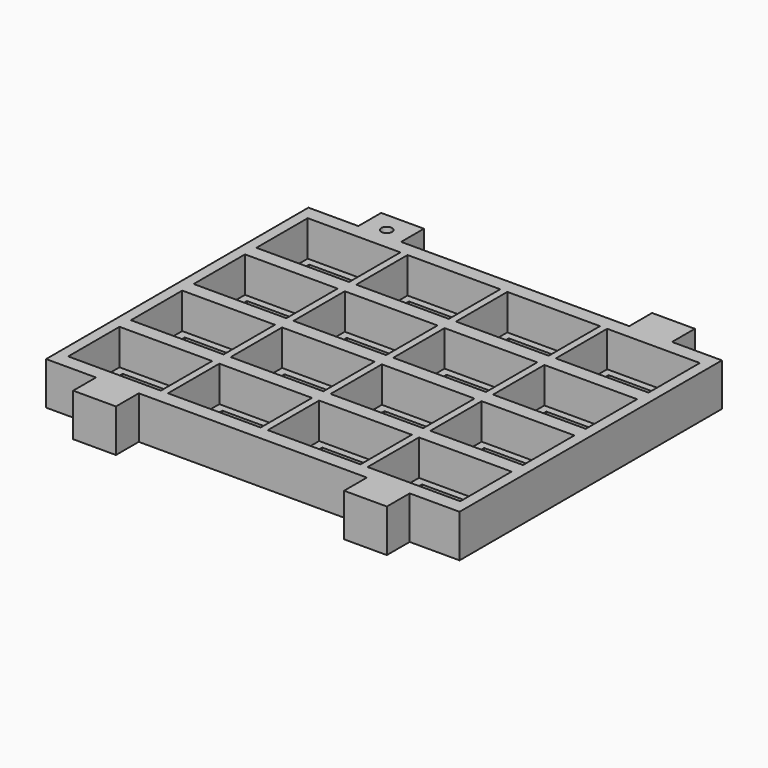
from build123d import *

# Parameters (mm, degrees)
F0_W      = 58
F0_H      = 46
F1_DEPTH  = 6
F2_W      = 11
F2_H      = 7
F3_DEPTH  = 6.001
F4_W      = 13
F4_H      = 9
F4_W_2    = 11
F4_H_2    = 7
F5_DEPTH  = 5
F6_W      = 6
F6_H      = 6
F7_DEPTH  = 4
F8_W      = 6
F8_H      = 6
F9_DEPTH  = 4
F10_R     = 0.75
F11_DEPTH = 6.001


with BuildPart() as f1:
    # F0 (on Top) → F1 (new body)
    with BuildSketch(Plane.XY):
        Rectangle(F0_W, F0_H)
    extrude(amount=F1_DEPTH)

    # F2 (on face) → F3 (cut, through all)
    with BuildSketch(Plane.XY.offset(6)):
        with Locations((-21, 16.5)):
            Rectangle(F2_W, F2_H)
        with Locations((-7, 16.5)):
            Rectangle(F2_W, F2_H)
        with Locations((7, 16.5)):
            Rectangle(F2_W, F2_H)
        with Locations((21, 16.5)):
            Rectangle(F2_W, F2_H)
        with Locations((-20.923837, 5.500264)):
            Rectangle(F2_W, F2_H)
        with Locations((-6.923837, 5.500264)):
            Rectangle(F2_W, F2_H)
        with Locations((7.076163, 5.500264)):
            Rectangle(F2_W, F2_H)
        with Locations((21.076163, 5.500264)):
            Rectangle(F2_W, F2_H)
        with Locations((-20.847673, -5.499473)):
            Rectangle(F2_W, F2_H)
        with Locations((-6.847673, -5.499473)):
            Rectangle(F2_W, F2_H)
        with Locations((7.152327, -5.499473)):
            Rectangle(F2_W, F2_H)
        with Locations((21.152327, -5.499473)):
            Rectangle(F2_W, F2_H)
        with Locations((-20.77151, -16.499209)):
            Rectangle(F2_W, F2_H)
        with Locations((-6.77151, -16.499209)):
            Rectangle(F2_W, F2_H)
        with Locations((7.22849, -16.499209)):
            Rectangle(F2_W, F2_H)
        with Locations((21.22849, -16.499209)):
            Rectangle(F2_W, F2_H)
    extrude(amount=-F3_DEPTH, mode=Mode.SUBTRACT)

    # F4 (on face) → F5 (cut)
    with BuildSketch(Plane.XY.offset(6)):
        with Locations((-21, 16.5)):
            Rectangle(F4_W, F4_H)
        with Locations((-21, 16.5)):
            Rectangle(F4_W_2, F4_H_2, mode=Mode.SUBTRACT)
        with Locations((-7, 16.5)):
            Rectangle(F4_W, F4_H)
        with Locations((-7, 16.5)):
            Rectangle(F4_W_2, F4_H_2, mode=Mode.SUBTRACT)
        with Locations((7, 16.5)):
            Rectangle(F4_W, F4_H)
        with Locations((7, 16.5)):
            Rectangle(F4_W_2, F4_H_2, mode=Mode.SUBTRACT)
        with Locations((21, 16.5)):
            Rectangle(F4_W, F4_H)
        with Locations((21, 16.5)):
            Rectangle(F4_W_2, F4_H_2, mode=Mode.SUBTRACT)
        with Locations((-21, 5.5)):
            Rectangle(F4_W, F4_H)
        with Locations((-20.923837, 5.500264)):
            Rectangle(F4_W_2, F4_H_2, mode=Mode.SUBTRACT)
        with Locations((7, 5.5)):
            Rectangle(F4_W, F4_H)
        with Locations((7.076163, 5.500264)):
            Rectangle(F4_W_2, F4_H_2, mode=Mode.SUBTRACT)
        with Locations((-7, 5.5)):
            Rectangle(F4_W, F4_H)
        with Locations((-6.923837, 5.500264)):
            Rectangle(F4_W_2, F4_H_2, mode=Mode.SUBTRACT)
        with Locations((21, 5.5)):
            Rectangle(F4_W, F4_H)
        with Locations((21.076163, 5.500264)):
            Rectangle(F4_W_2, F4_H_2, mode=Mode.SUBTRACT)
        with Locations((-21, -5.5)):
            Rectangle(F4_W, F4_H)
        with Locations((-20.847673, -5.499473)):
            Rectangle(F4_W_2, F4_H_2, mode=Mode.SUBTRACT)
        with Locations((-7, -5.5)):
            Rectangle(F4_W, F4_H)
        with Locations((-6.847673, -5.499473)):
            Rectangle(F4_W_2, F4_H_2, mode=Mode.SUBTRACT)
        with Locations((7, -5.5)):
            Rectangle(F4_W, F4_H)
        with Locations((7.152327, -5.499473)):
            Rectangle(F4_W_2, F4_H_2, mode=Mode.SUBTRACT)
        with Locations((21, -5.5)):
            Rectangle(F4_W, F4_H)
        with Locations((21.152327, -5.499473)):
            Rectangle(F4_W_2, F4_H_2, mode=Mode.SUBTRACT)
        with Locations((-21, -16.5)):
            Rectangle(F4_W, F4_H)
        with Locations((-20.77151, -16.499209)):
            Rectangle(F4_W_2, F4_H_2, mode=Mode.SUBTRACT)
        with Locations((-7, -16.5)):
            Rectangle(F4_W, F4_H)
        with Locations((-6.77151, -16.499209)):
            Rectangle(F4_W_2, F4_H_2, mode=Mode.SUBTRACT)
        with Locations((7, -16.5)):
            Rectangle(F4_W, F4_H)
        with Locations((7.22849, -16.499209)):
            Rectangle(F4_W_2, F4_H_2, mode=Mode.SUBTRACT)
        with Locations((21, -16.5)):
            Rectangle(F4_W, F4_H)
        with Locations((21.22849, -16.499209)):
            Rectangle(F4_W_2, F4_H_2, mode=Mode.SUBTRACT)
    extrude(amount=-F5_DEPTH, mode=Mode.SUBTRACT)

    # F6 (on face) → F7 (join)
    with BuildSketch(Plane.XZ.offset(23)):
        with Locations((19, 3)):
            Rectangle(F6_W, F6_H)
        with Locations((-19, 3)):
            Rectangle(F6_W, F6_H)
    extrude(amount=F7_DEPTH)

    # F8 (on face) → F9 (join)
    with BuildSketch(Plane(origin=(0, 23, 0), x_dir=(-1, 0, 0), z_dir=(0, 1, 0))):
        with Locations((19, 3)):
            Rectangle(F8_W, F8_H)
        with Locations((-19, 3)):
            Rectangle(F8_W, F8_H)
    extrude(amount=F9_DEPTH)

    # F10 (on face) → F11 (cut, through all)
    with BuildSketch(Plane.XY.offset(6)):
        with Locations((-19, 24.222791)):
            Circle(F10_R)
    extrude(amount=-F11_DEPTH, mode=Mode.SUBTRACT)


solid = f1.part
